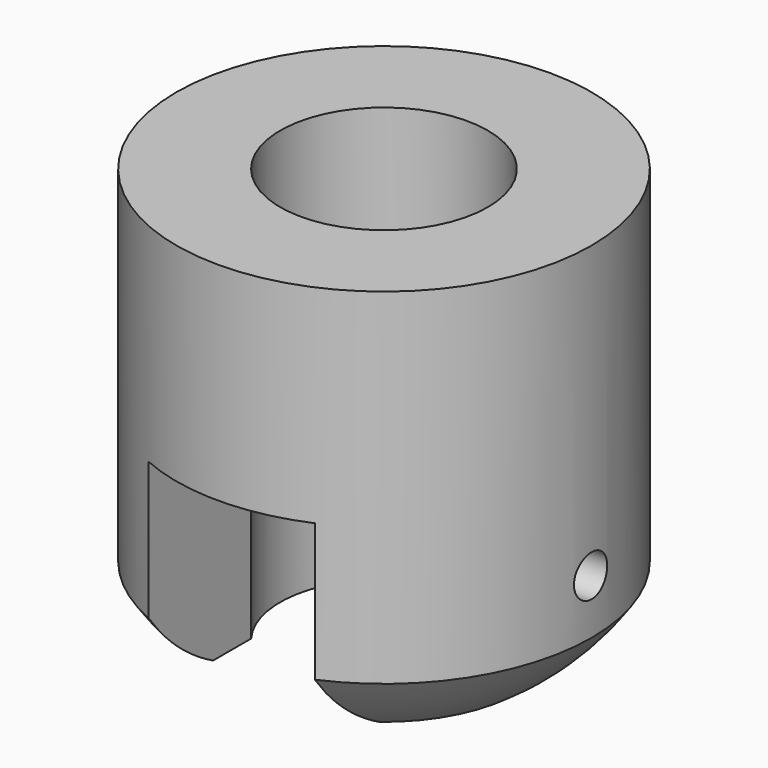
from build123d import *

# Parameters (mm, degrees)
CYLINDER006_R     = 3
CYLINDER006_DEPTH = 10
CYLINDER005_R     = 5
CYLINDER005_DEPTH = 4
CYLINDER002_R     = 0.5
CYLINDER002_DEPTH = 10
CYLINDER001_R     = 2.5
CYLINDER001_DEPTH = 10
BOX_W             = 4
BOX_H             = 10
BOX_DEPTH         = 5
CYLINDER_R        = 5
CYLINDER_DEPTH    = 10


with BuildPart() as cylinder006:
    # Cylinder006 → Cylinder006 (new body)
    with BuildSketch(Plane(origin=(18, 0, -6), x_dir=(1, 0, 0), z_dir=(0, 0, 1))):
        Circle(CYLINDER006_R)
    extrude(amount=CYLINDER006_DEPTH)


with BuildPart() as cut004:
    # Cylinder005 → Cylinder005 (new body)
    with BuildSketch(Plane(origin=(18, 0, -4), x_dir=(1, 0, 0), z_dir=(0, 0, 1))):
        Circle(CYLINDER005_R)
    extrude(amount=CYLINDER005_DEPTH)

    # Cut004: cut Cylinder006
    add(cylinder006.part, mode=Mode.SUBTRACT)


with BuildPart() as cut004_1:
    # Cut004 placement: moved
    add(cut004.part.moved(Location((-18, 0, 0))))


with BuildPart() as sphere001:
    # Sphere001 → Sphere001 (revolve)
    with BuildSketch(Plane(origin=(0, 0, -5), x_dir=(1, 0, 0), z_dir=(0, -1, 0))):
        with BuildLine():
            ThreePointArc((0, -6), (6, 0), (0, 6))
            Line((0, 6), (0, -6))
        make_face()
    revolve(axis=Axis((0, 0, -5), (0, 0, 1)))


with BuildPart() as cylinder002:
    # Cylinder002 → Cylinder002 (new body)
    with BuildSketch(Plane(origin=(5, 0, -7), x_dir=(0, 0, 1), z_dir=(-1, 0, 0))):
        Circle(CYLINDER002_R)
    extrude(amount=CYLINDER002_DEPTH)


with BuildPart() as cylinder001:
    # Cylinder001 → Cylinder001 (new body)
    with BuildSketch(Plane.XY.offset(-10)):
        Circle(CYLINDER001_R)
    extrude(amount=CYLINDER001_DEPTH)


with BuildPart() as cube:
    # Box → Box (new body)
    with BuildSketch(Plane(origin=(-2, -5, -10), x_dir=(1, 0, 0), z_dir=(0, 0, 1))):
        with Locations((2, 5)):
            Rectangle(BOX_W, BOX_H)
    extrude(amount=BOX_DEPTH)


with BuildPart() as fusion001:
    # Cylinder → Cylinder (new body)
    with BuildSketch(Plane.XY.offset(-10)):
        Circle(CYLINDER_R)
    extrude(amount=CYLINDER_DEPTH)

    # Cut: cut Cube
    add(cube.part, mode=Mode.SUBTRACT)

    # Cut001: cut Cylinder001
    add(cylinder001.part, mode=Mode.SUBTRACT)

    # Cut002: cut Cylinder002
    add(cylinder002.part, mode=Mode.SUBTRACT)

    # Common: intersect Sphere001
    add(sphere001.part, mode=Mode.INTERSECT)

    # Fusion: union Cut004
    add(cut004_1.part)


with BuildPart() as fusion001_1:
    # Fusion001 placement: moved
    add(fusion001.part.moved(Location((0, 0, -18.5))))


solid = fusion001_1.part
